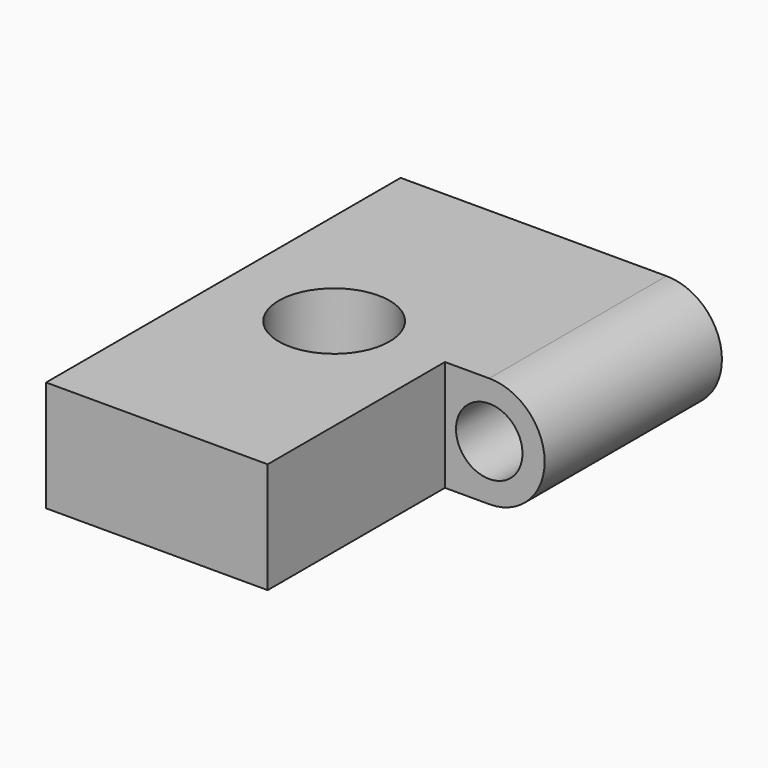
from build123d import *

# Parameters (mm, degrees)
F0_W     = 12.7
F0_H     = 25.4
F0_R     = 3.175
F1_DEPTH = 6.35
F2_R     = 1.905
F3_DEPTH = 12.7


with BuildPart() as f1:
    # F0 (on Top) → F1 (new body)
    with BuildSketch(Plane.XY):
        with Locations((6.35, 12.7)):
            Rectangle(F0_W, F0_H)
        with Locations((6.35, 12.7)):
            Circle(F0_R, mode=Mode.SUBTRACT)
    extrude(amount=F1_DEPTH)

    # F2 (on face) → F3 (join)
    with BuildSketch(Plane(origin=(0, 25.4, 0), x_dir=(-1, 0, 0), z_dir=(0, 1, 0))):
        with BuildLine():
            Line((-12.7, 0), (-12.7, 6.35))
            Line((-12.7, 6.35), (-15.24, 6.35))
            ThreePointArc((-15.24, 6.35), (-18.415, 3.175), (-15.24, 0))
            Line((-15.24, 0), (-12.7, 0))
        make_face()
        with Locations((-15.24, 3.175)):
            Circle(F2_R, mode=Mode.SUBTRACT)
    extrude(amount=-F3_DEPTH)


solid = f1.part
